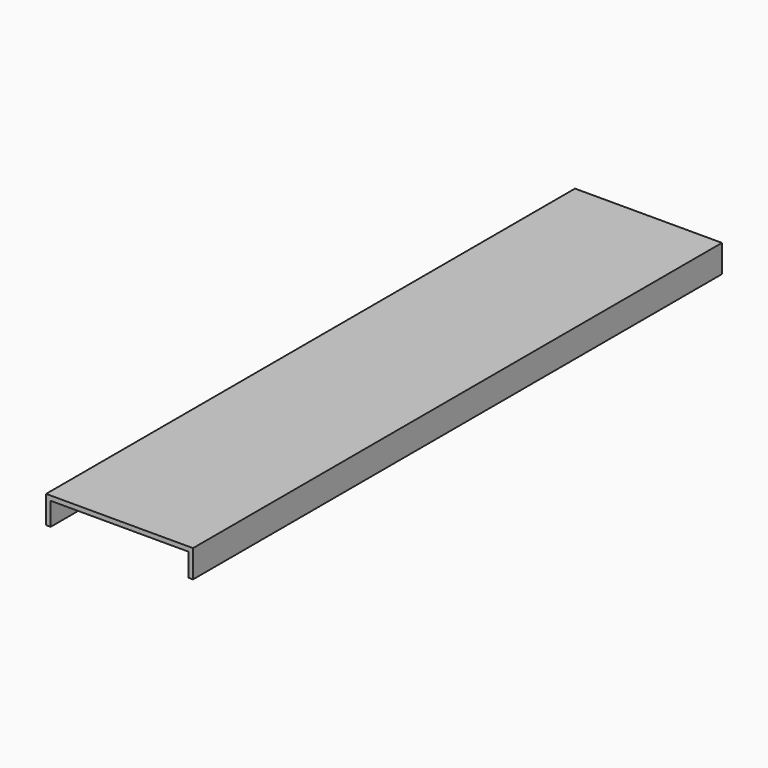
from build123d import *

# Parameters (mm, degrees)
F0_W     = 6.35
F0_H     = 31.75
F1_DEPTH = 914.4


with BuildPart() as f1:
    # F0 (on Front) → F1 (new body)
    with BuildSketch(Plane.XZ):
        Polygon((0, 6.35), (0, 0), (6.35, 0), (196.85, 0), (203.2, 0), (203.2, 6.35), (104.775, 6.35), (98.425, 6.35), align=None)
        with Locations((3.175, -15.875)):
            Rectangle(F0_W, F0_H)
        with Locations((200.025, -15.875)):
            Rectangle(F0_W, F0_H)
    extrude(amount=-F1_DEPTH)


solid = f1.part
